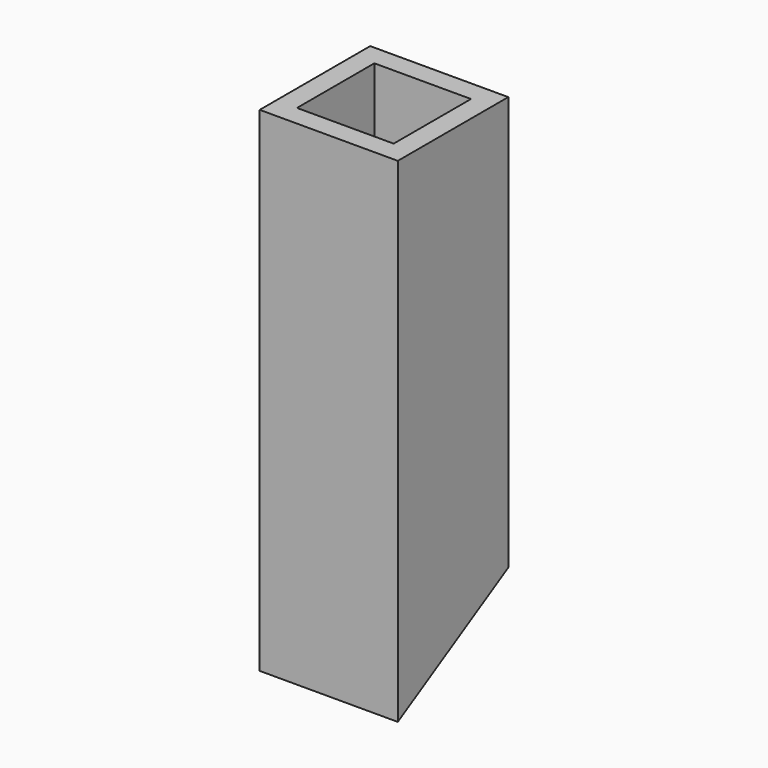
from build123d import *

# Parameters (mm, degrees)
SKETCH_W     = 20
SKETCH_H     = 20
SKETCH_W_2   = 14
SKETCH_H_2   = 14
PAD_DEPTH    = 50
SKETCH002_W  = 20
SKETCH002_H  = 20
PAD001_DEPTH = 30
POCKET_DEPTH = 20.001


with BuildPart() as part:
    # Sketch → Pad (new body)
    with BuildSketch(Plane.XY):
        Rectangle(SKETCH_W, SKETCH_H)
        Rectangle(SKETCH_W_2, SKETCH_H_2, mode=Mode.SUBTRACT)
    extrude(amount=PAD_DEPTH)

    # Sketch002 (on Face9 of Pad) → Pad001 (join)
    with BuildSketch(Plane(origin=(0, 0, 0), x_dir=(1, 0, 0), z_dir=(0, 0, -1))):
        Rectangle(SKETCH002_W, SKETCH002_H)
    extrude(amount=PAD001_DEPTH)

    # Sketch003 (on Face7 of Pad001) → Pocket (cut, through all)
    with BuildSketch(Plane(origin=(-10, 0, 0), x_dir=(0, -1, 0), z_dir=(-1, 0, 0))):
        Polygon((-10, -10), (10, -21.547005), (10, -30), (-10, -30), align=None)
    extrude(amount=-POCKET_DEPTH, mode=Mode.SUBTRACT)


solid = part.part
